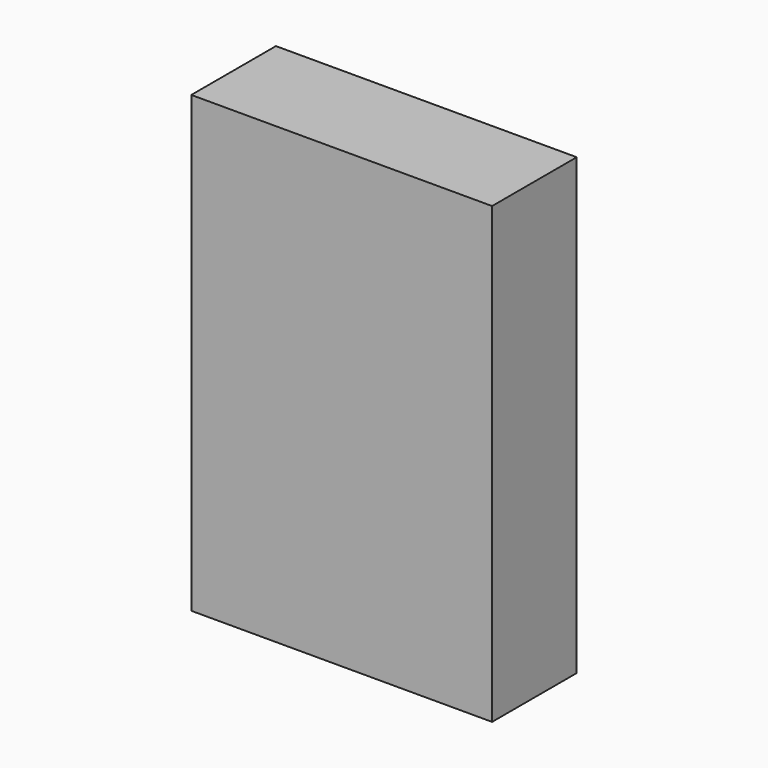
from build123d import *

# Parameters (mm, degrees)
F0_W     = 76.5
F0_H     = 115.5
F1_DEPTH = 26.9
F2_T     = -2.5
F4_DEPTH = 25


with BuildPart() as f1:
    # F0 (on Front) → F1 (new body)
    with BuildSketch(Plane.XZ):
        Rectangle(F0_W, F0_H)
    extrude(amount=F1_DEPTH)

    # F2
    f2_openings = [f1.faces().sort_by_distance(p)[0] for p in [
        (0, 0, 0),
    ]]
    offset(amount=F2_T, openings=f2_openings)

    # F3 (on face) → F4 (cut)
    with BuildSketch(Plane.XY.offset(-55.25)):
        with BuildLine():
            Line((35.75, -15), (35.75, 0))
            Line((35.75, 0), (23.25, 0))
            Line((23.25, 0), (23.25, -15))
            ThreePointArc((23.25, -15), (29.5, -21.25), (35.75, -15))
        make_face()
    extrude(amount=-F4_DEPTH, mode=Mode.SUBTRACT)


solid = f1.part
